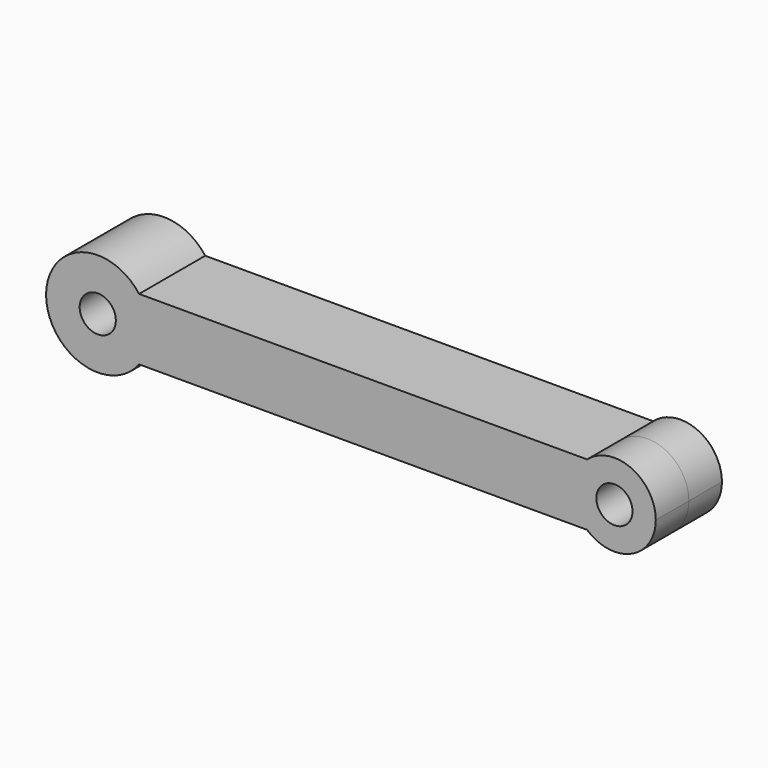
from build123d import *

# Parameters (mm, degrees)
F0_R     = 0.875
F1_DEPTH = 2
F2_R     = 0.875
F3_DEPTH = 4.001


with BuildPart() as f1:
    # F0 (on Front) → F1 (new body, symmetric)
    with BuildSketch(Plane.XZ):
        with BuildLine():
            ThreePointArc((-10.5, 1.5), (-15, 0), (-10.5, -1.5))
            Line((-10.5, -1.5), (11.1771243445, -1.5))
            ThreePointArc((11.1771243445, -1.5), (10.5, 0), (11.1771243445, 1.5))
            Line((11.1771243445, 1.5), (-10.5, 1.5))
        make_face()
        with Locations((-12.5, 0)):
            Circle(F0_R, mode=Mode.SUBTRACT)
        with BuildLine():
            Line((11.1771243445, 1.5), (11.1771243445, -1.5))
            ThreePointArc((11.1771243445, -1.5), (13.3228756555, -1.8228756555), (14.5, 0))
            ThreePointArc((14.5, 0), (13.3228756555, 1.8228756555), (11.1771243445, 1.5))
        make_face()
        with BuildLine():
            ThreePointArc((11.1771243445, 1.5), (10.5, 0), (11.1771243445, -1.5))
            Line((11.1771243445, -1.5), (11.1771243445, 1.5))
        make_face()
    extrude(amount=F1_DEPTH, both=True)

    # F2 (on face) → F3 (cut, through all)
    with BuildSketch(Plane.XZ.offset(2)):
        with Locations((12.5, 0)):
            Circle(F2_R)
    extrude(amount=-F3_DEPTH, mode=Mode.SUBTRACT)


solid = f1.part
